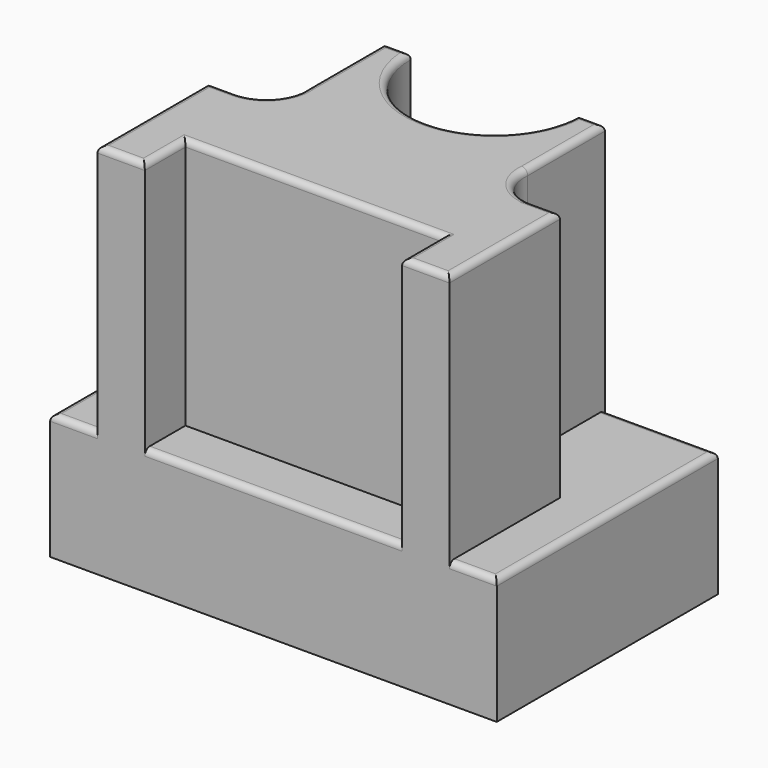
from build123d import *

# Parameters (mm, degrees)
F0_W     = 90.20937762
F0_H     = 55.82251726
F1_DEPTH = 76.2
F2_R     = 16.9269763234
F3_DEPTH = 76.2
F4_W     = 51.9804880023
F4_H     = 10.2611703347
F5_DEPTH = 50.8
F6_R     = 7.62
F7_DEPTH = 50.8
F8_W     = 9.5572224044
F8_H     = 27.9414801582
F8_H_2   = 27.91125863
F9_DEPTH = 50.8
F10_R    = 1.27


with BuildPart() as f1:
    # F0 (on Top) → F1 (new body)
    with BuildSketch(Plane.XY):
        Rectangle(F0_W, F0_H)
    extrude(amount=F1_DEPTH)

    # F2 (on face) → F3 (cut)
    with BuildSketch(Plane.XY.offset(76.2)):
        with Locations((0, 27.91125863)):
            Circle(F2_R)
    extrude(amount=-F3_DEPTH, mode=Mode.SUBTRACT)

    # F4 (on face) → F5 (cut)
    with BuildSketch(Plane.XY.offset(76.2)):
        with Locations((0, -22.7806734627)):
            Rectangle(F4_W, F4_H)
    extrude(amount=-F5_DEPTH, mode=Mode.SUBTRACT)

    # F6 (on face) → F7 (cut)
    with BuildSketch(Plane.XY.offset(76.2)):
        with Locations((-29.86468881, 7.64874137)):
            Circle(F6_R)
        with Locations((29.86468881, 7.64874137)):
            Circle(F6_R)
    extrude(amount=-F7_DEPTH, mode=Mode.SUBTRACT)

    # F8 (on face) → F9 (cut)
    with BuildSketch(Plane.XY.offset(76.2)):
        with BuildLine():
            Line((-22.2841894419, 27.91125863), (-45.10468881, 27.91125863))
            Line((-45.10468881, 27.91125863), (-45.10468881, 6.8738676186))
            Line((-45.10468881, 6.8738676186), (-37.4451881781, 6.8738676186))
            ThreePointArc((-37.4451881781, 6.8738676186), (-30.6395625614, 15.2292407381), (-22.2841894419, 8.4236151214))
            Line((-22.2841894419, 8.4236151214), (-22.2841894419, 27.91125863))
        make_face()
        with BuildLine():
            Line((-37.4451881781, 6.8738676186), (-45.10468881, 6.8738676186))
            Line((-45.10468881, 6.8738676186), (-45.10468881, 0.0302215282))
            Line((-45.10468881, 0.0302215282), (-35.5474664056, 0.0302215282))
            Line((-35.5474664056, 0.0302215282), (-30.0148734284, 0.0302215282))
            ThreePointArc((-30.0148734284, 0.0302215282), (-35.0270275898, 2.0438632873), (-37.4451881781, 6.8738676186))
        make_face()
        with Locations((-40.3260776078, -13.9405185509)):
            Rectangle(F8_W, F8_H)
        with BuildLine():
            Line((45.10468881, 27.91125863), (22.2841894419, 27.91125863))
            Line((22.2841894419, 27.91125863), (22.2841894419, 8.4236151214))
            ThreePointArc((22.2841894419, 8.4236151214), (30.2526287637, 15.2588598048), (37.48468881, 7.64874137))
            ThreePointArc((37.48468881, 7.64874137), (37.4748072448, 7.2608014163), (37.4451881781, 6.8738676186))
            Line((37.4451881781, 6.8738676186), (45.10468881, 6.8738676186))
            Line((45.10468881, 6.8738676186), (45.10468881, 27.91125863))
        make_face()
        with BuildLine():
            Line((45.10468881, 0), (45.10468881, 6.8738676186))
            Line((45.10468881, 6.8738676186), (37.4451881781, 6.8738676186))
            ThreePointArc((37.4451881781, 6.8738676186), (34.9251180007, 1.9516845504), (29.7400578856, 0.0297606552))
            Line((29.7400578856, 0.0297606552), (29.7400578856, 0))
            Line((29.7400578856, 0), (35.5474664056, 0))
            Line((35.5474664056, 0), (45.10468881, 0))
        make_face()
        with Locations((40.3260776078, -13.955629315)):
            Rectangle(F8_W, F8_H_2)
    extrude(amount=-F9_DEPTH, mode=Mode.SUBTRACT)

    # F10
    f10_edges = [f1.edges().sort_by_distance(p)[0] for p in [
        (-33.694439, 27.911259, 25.4),
        (33.694439, 27.911259, 25.4),
        (19.605583, 27.911259, 76.2),
        (-19.605583, 27.911259, 76.2),
        (0, 10.984282, 76.2),
        (25.990244, -22.780673, 76.2),
        (30.768855, -27.911259, 76.2),
        (35.547466, -13.955629, 76.2),
        (32.643762, 0, 76.2),
        (29.740058, 0.01488, 76.2),
        (24.167632, 2.588312, 76.2),
        (22.284189, 18.167437, 76.2),
        (-22.284189, 18.167437, 76.2),
        (-24.259811, 2.486403, 76.2),
        (-32.78117, 0.030222, 76.2),
        (-35.547466, -13.940519, 76.2),
        (-30.768855, -27.911259, 76.2),
        (-25.990244, -22.780673, 76.2),
        (0, -17.650088, 76.2),
        (0, -27.911259, 25.4),
        (-40.326078, -27.911259, 25.4),
        (-45.104689, 0, 25.4),
        (45.104689, 0, 25.4),
        (40.326078, -27.911259, 25.4),
    ]]
    fillet(f10_edges, radius=F10_R)


solid = f1.part
